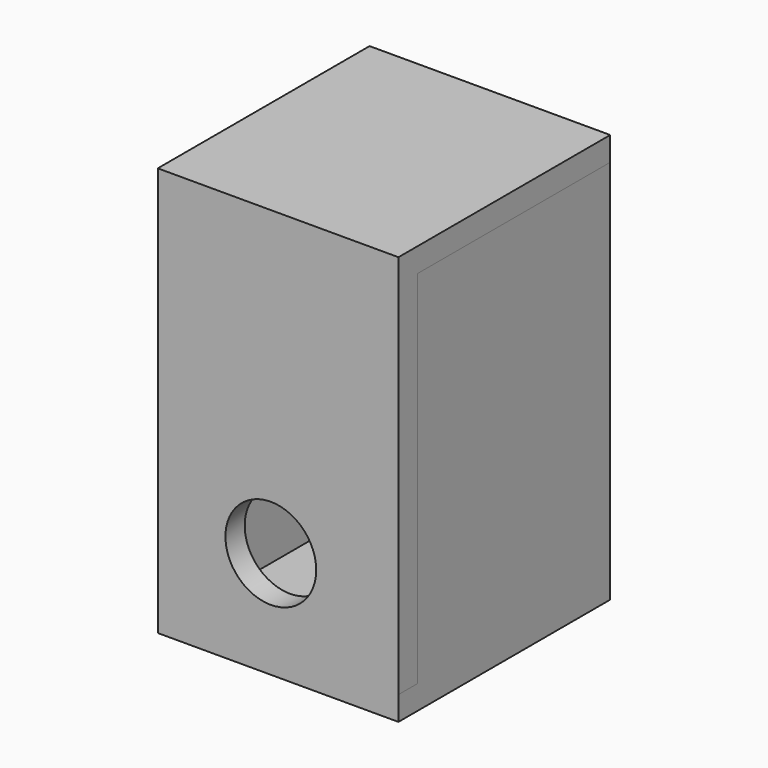
from build123d import *

# Parameters (mm, degrees)
F0_W      = 200
F0_H      = 300
F1_DEPTH  = 1.5
F2_W      = 20
F2_H      = 300
F3_DEPTH  = 200
F4_W      = 20
F4_H      = 300
F5_DEPTH  = 200
F6_W      = 200.020596385
F6_H      = 300
F7_DEPTH  = 20
F8_W      = 200.020596385
F8_H      = 220
F9_DEPTH  = 20
F10_W     = 200
F10_H     = 220
F9_FACE_W = 200.020596385
F9_FACE_H = 220
F11_DEPTH = 20
F12_R     = 37.7291008544
F13_DEPTH = 92


with BuildPart() as f1:
    # F0 (on Front) → F1 (new body)
    with BuildSketch(Plane.XZ):
        with Locations((100, 150)):
            Rectangle(F0_W, F0_H)
    extrude(amount=F1_DEPTH)

    # F2 (on Front) → F3 (join)
    with BuildSketch(Plane.XZ):
        with Locations((10, 150)):
            Rectangle(F2_W, F2_H)
    extrude(amount=F3_DEPTH)

    # F4 (on face) → F5 (join)
    with BuildSketch(Plane.XZ.offset(1.5)):
        with Locations((190, 150)):
            Rectangle(F4_W, F4_H)
    extrude(amount=F5_DEPTH)

    # F6 (on face) → F7 (join)
    with BuildSketch(Plane.XZ.offset(200)):
        with Locations((100.0102981925, 150)):
            Rectangle(F6_W, F6_H)
    extrude(amount=F7_DEPTH)

    # F8 (on face) → F9 (join)
    with BuildSketch(Plane.XY.offset(300)):
        with Locations((100.0102981925, -110)):
            Rectangle(F8_W, F8_H)
    extrude(amount=F9_DEPTH)

    # F10 (on face) + F9_face (on face) → F11 (join)
    with BuildSketch(Plane(origin=(0, 0, 0), x_dir=(1, 0, 0), z_dir=(0, 0, -1))):
        with Locations((100, 110)):
            Rectangle(F10_W, F10_H)
    with BuildSketch(Plane(origin=(100.0102981925, -110, 320), x_dir=(1, 0, 0), z_dir=(0, 0, 1))):
        Rectangle(F9_FACE_W, F9_FACE_H)
    extrude(amount=F11_DEPTH, dir=(0, 0, -1))

    # F12 (on face) → F13 (cut)
    with BuildSketch(Plane.XZ.offset(220)):
        with Locations((93.9410999417, 68.8626393676)):
            Circle(F12_R)
    extrude(amount=-F13_DEPTH, mode=Mode.SUBTRACT)


solid = f1.part
